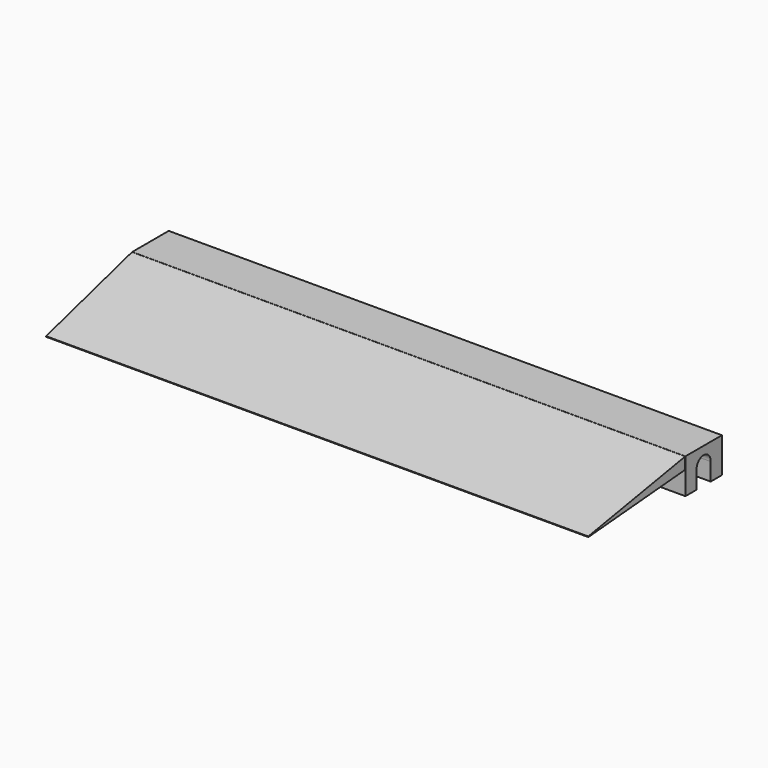
from build123d import *

# Parameters (mm, degrees)
F1_DEPTH = 60
F3_W     = 120
F3_H     = 2.5442746818
F4_DEPTH = 25.4
F4_TAPER = 2.7


with BuildPart() as f1:
    # F0 (on Right) → F1 (new body, symmetric)
    with BuildSketch(Plane.YZ):
        with BuildLine():
            Line((0, 7.62), (0, 0))
            Line((0, 0), (3.048, 0))
            Line((3.048, 0), (3.048, 3.8284082947))
            ThreePointArc((3.048, 3.8284082947), (4.953, 5.842), (6.858, 3.8284082947))
            Line((6.858, 3.8284082947), (6.858, 0))
            Line((6.858, 0), (9.906, 0))
            Line((9.906, 0), (9.906, 7.62))
            Line((9.906, 7.62), (0, 7.62))
        make_face()
    extrude(amount=F1_DEPTH, both=True)

    # F3 (on face) → F4 (join)
    with BuildSketch(Plane(origin=(0, 1.3030967461, 0.2297711148), x_dir=(-1, 0, 0), z_dir=(0, 0.984807753, 0.1736481777))):
        with Locations((0.0323992264, 6.2055471144)):
            Rectangle(F3_W, F3_H)
    extrude(amount=-F4_DEPTH, taper=F4_TAPER)


solid = f1.part
